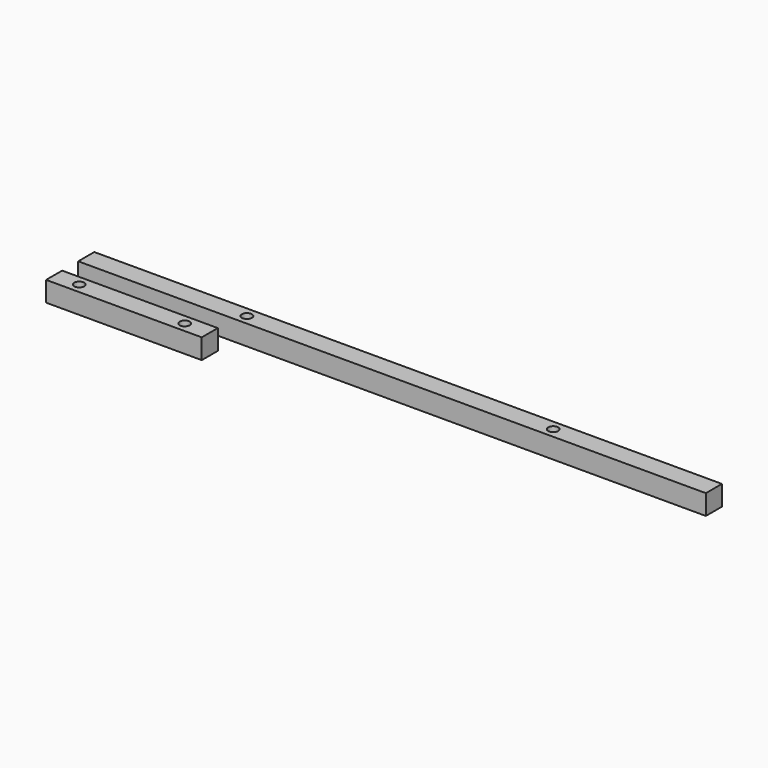
from build123d import *

# Parameters (mm, degrees)
F0_W     = 2500
F0_H     = 80
F0_R     = 20
F0_W_2   = 620
F1_DEPTH = 80


with BuildPart() as f1:
    # F0 (on Top) → F1 (new body)
    with BuildSketch(Plane.XY):
        with Locations((1250, 40)):
            Rectangle(F0_W, F0_H)
        with Locations((640, 40)):
            Circle(F0_R, mode=Mode.SUBTRACT)
        with Locations((1860, 40)):
            Circle(F0_R, mode=Mode.SUBTRACT)
        with Locations((310, -120)):
            Rectangle(F0_W_2, F0_H)
        with Locations((100, -120)):
            Circle(F0_R, mode=Mode.SUBTRACT)
        with Locations((520, -120)):
            Circle(F0_R, mode=Mode.SUBTRACT)
    extrude(amount=F1_DEPTH)


solid = f1.part
